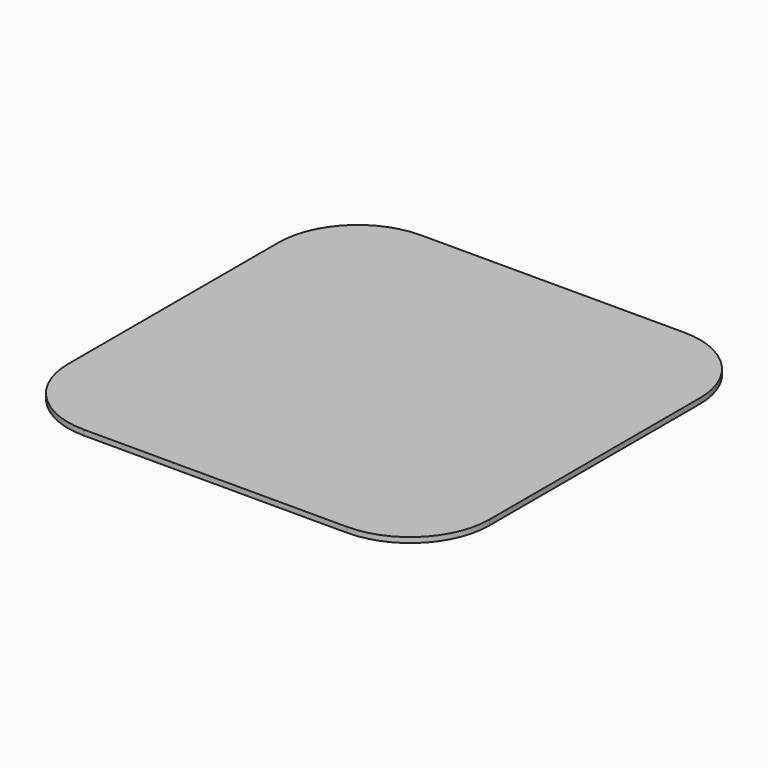
from build123d import *

# Parameters (mm, degrees)
F1_DEPTH = 0.635


with BuildPart() as f1:
    # F0 (on Top) → F1 (new body, symmetric)
    with BuildSketch(Plane.XY):
        with BuildLine():
            Line((-31.75, -50.8), (31.75, -50.8))
            ThreePointArc((31.75, -50.8), (45.220384, -45.220384), (50.8, -31.75))
            Line((50.8, -31.75), (50.8, 31.75))
            ThreePointArc((50.8, 31.75), (45.220384, 45.220384), (31.75, 50.8))
            Line((31.75, 50.8), (-31.75, 50.8))
            ThreePointArc((-31.75, 50.8), (-45.220384, 45.220384), (-50.8, 31.75))
            Line((-50.8, 31.75), (-50.8, -31.75))
            ThreePointArc((-50.8, -31.75), (-45.220384, -45.220384), (-31.75, -50.8))
        make_face()
    extrude(amount=F1_DEPTH, both=True)


solid = f1.part
